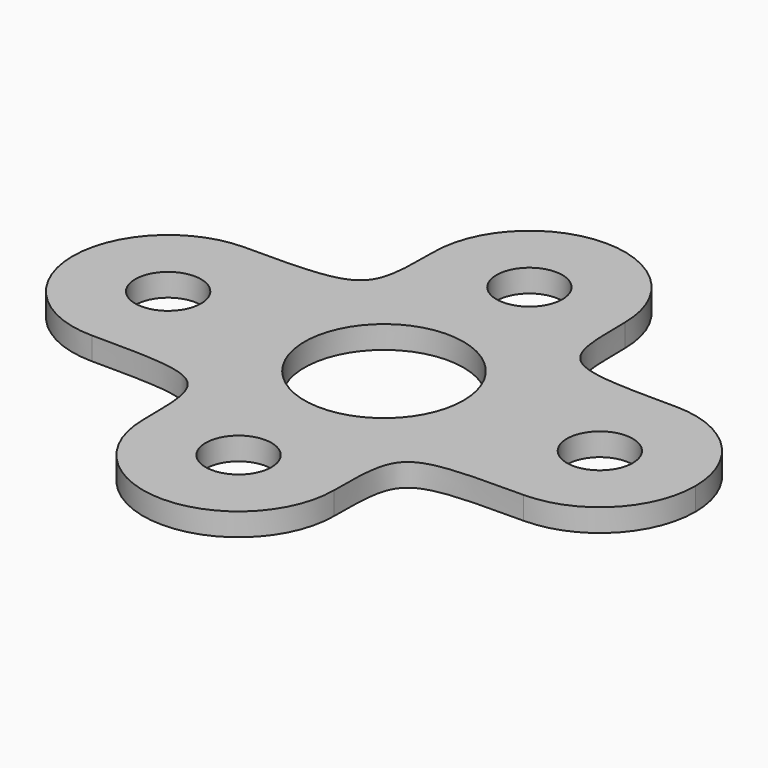
from build123d import *

# Parameters (mm, degrees)
F1_R     = 3.5
F1_R_2   = 3
F1_R_3   = 1.45
F2_DEPTH = 1


with BuildPart() as f2:
    # F1 (on Top) → F2 (new body)
    with BuildSketch(Plane.XY):
        with BuildLine():
            add(Edge.make_bspline(
                [(4.2, 8), (4.2, 4.3558003341), (4.3243523603, 4.2), (9.5, 4.2)],
                knots=[0, 0, 0, 0, 6.5215028943, 6.5215028943, 6.5215028943, 6.5215028943], degree=3))
            ThreePointArc((4.2, 8), (0, 3.8), (-4.2, 8))
            add(Edge.make_bspline(
                [(-4.2, 8), (-4.2, 4.3558003341), (-4.3243523603, 4.2), (-9.5, 4.2)],
                knots=[0, 0, 0, 0, 6.5215028943, 6.5215028943, 6.5215028943, 6.5215028943], degree=3))
            ThreePointArc((-9.5, 4.2), (-6.530151519, 2.969848481), (-5.3, 0))
            ThreePointArc((-5.3, 0), (-6.530151519, -2.969848481), (-9.5, -4.2))
            add(Edge.make_bspline(
                [(-4.2, -8), (-4.2, -4.3558003341), (-4.3243523603, -4.2), (-9.5, -4.2)],
                knots=[0, 0, 0, 0, 6.5215028943, 6.5215028943, 6.5215028943, 6.5215028943], degree=3))
            ThreePointArc((-4.2, -8), (0, -3.8), (4.2, -8))
            add(Edge.make_bspline(
                [(9.5, -4.2), (4.3243523603, -4.2), (4.2, -4.3558003341), (4.2, -8)],
                knots=[0, 0, 0, 0, 6.5215028943, 6.5215028943, 6.5215028943, 6.5215028943], degree=3))
            ThreePointArc((9.5, -4.2), (5.3, 0), (9.5, 4.2))
        make_face()
        Circle(F1_R, mode=Mode.SUBTRACT)
        with BuildLine():
            ThreePointArc((-5.3, 0), (-6.530151519, 2.969848481), (-9.5, 4.2))
            ThreePointArc((-9.5, 4.2), (-13.7, 0), (-9.5, -4.2))
            ThreePointArc((-9.5, -4.2), (-6.530151519, -2.969848481), (-5.3, 0))
        make_face()
        with Locations((-9.5, 0)):
            Circle(F1_R_2, mode=Mode.SUBTRACT)
        with BuildLine():
            ThreePointArc((-4.2, -8), (0, -12.2), (4.2, -8))
            ThreePointArc((4.2, -8), (0, -3.8), (-4.2, -8))
        make_face()
        with Locations((0, -8)):
            Circle(F1_R_2, mode=Mode.SUBTRACT)
        with BuildLine():
            ThreePointArc((13.7, 0), (12.469848481, 2.969848481), (9.5, 4.2))
            ThreePointArc((9.5, 4.2), (5.3, 0), (9.5, -4.2))
            ThreePointArc((9.5, -4.2), (12.469848481, -2.969848481), (13.7, 0))
        make_face()
        with Locations((9.5, 0)):
            Circle(F1_R_2, mode=Mode.SUBTRACT)
        with BuildLine():
            ThreePointArc((-4.2, 8), (0, 3.8), (4.2, 8))
            ThreePointArc((4.2, 8), (0, 12.2), (-4.2, 8))
        make_face()
        with Locations((0, 8)):
            Circle(F1_R_2, mode=Mode.SUBTRACT)
        with Locations((0, 8)):
            Circle(F1_R_2)
        with Locations((0, 8)):
            Circle(F1_R_3, mode=Mode.SUBTRACT)
        with Locations((-9.5, 0)):
            Circle(F1_R_2)
        with Locations((-9.5, 0)):
            Circle(F1_R_3, mode=Mode.SUBTRACT)
        with Locations((0, -8)):
            Circle(F1_R_2)
        with Locations((0, -8)):
            Circle(F1_R_3, mode=Mode.SUBTRACT)
        with Locations((9.5, 0)):
            Circle(F1_R_2)
        with Locations((9.5, 0)):
            Circle(F1_R_3, mode=Mode.SUBTRACT)
    extrude(amount=F2_DEPTH)


solid = f2.part
